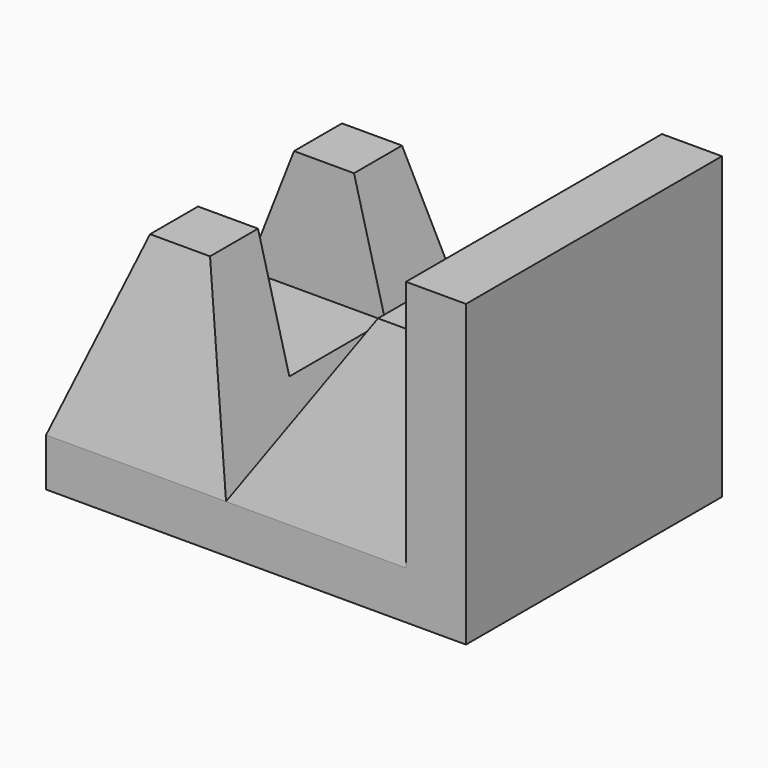
from build123d import *

# Parameters (mm, degrees)
F0_W      = 15
F0_H      = 63
F1_DEPTH  = 40
F4_W      = 15
F4_H      = 60
F2_W      = 45
F2_H      = 80
F1_FACE_W = 45
F1_FACE_H = 80
F8_W      = 30
F8_H      = 30
F9_DEPTH  = 50


with BuildPart() as f1:
    # F0 (on Front) → F1 (new body, symmetric)
    with BuildSketch(Plane.XZ):
        Polygon((-52.5, -6), (52.5, -6), (52.5, 6), (37.5, 6), (-52.5, 6), align=None)
        with Locations((45, 37.5)):
            Rectangle(F0_W, F0_H)
    extrude(amount=F1_DEPTH, both=True)

    # F4 (on offset) → F5 section 0
    with BuildSketch(Plane.XY.offset(52)):
        with Locations((-27, 0)):
            Rectangle(F4_W, F4_H)
    # F2 (on face) → F5 section 1
    with BuildSketch(Plane.XY.offset(6)):
        with Locations((-30, 0)):
            Rectangle(F2_W, F2_H)
    loft()

    # F4 (on offset) → F6 section 0
    with BuildSketch(Plane.XY.offset(52)):
        with Locations((30, 0)):
            Rectangle(F4_W, F4_H)
    # F1_face (on face) → F6 section 1
    with BuildSketch(Plane(origin=(-7.5, 0, 6), x_dir=(1, 0, 0), z_dir=(0, 0, 1))):
        with Locations((22.5, 0)):
            Rectangle(F1_FACE_W, F1_FACE_H)
    loft()

    # F8 (on offset) → F9 (cut)
    with BuildSketch(Plane.YZ.offset(-52.5)):
        with Locations((0, 37)):
            Rectangle(F8_W, F8_H)
    extrude(amount=F9_DEPTH, mode=Mode.SUBTRACT)


solid = f1.part
